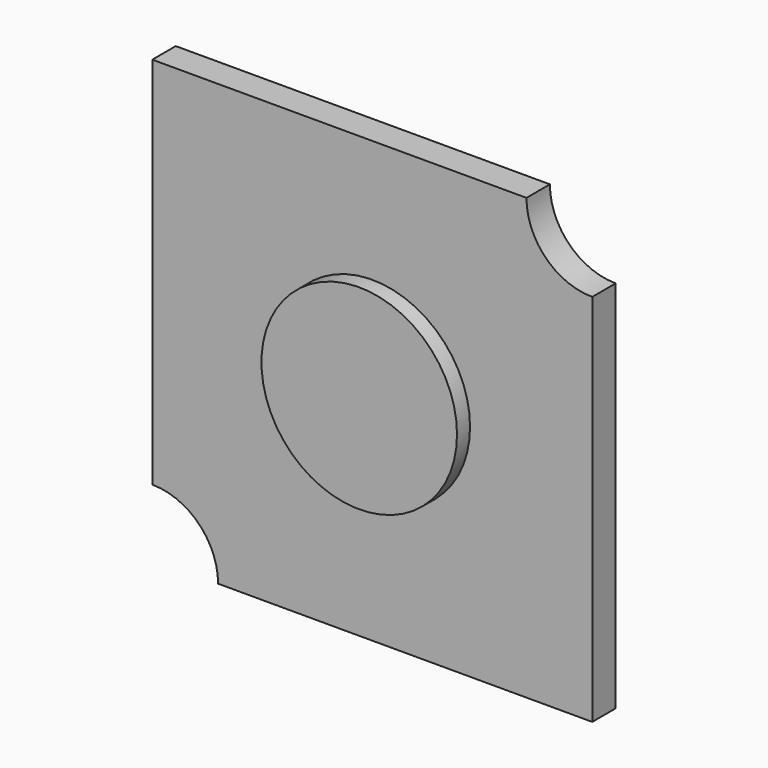
from build123d import *

# Parameters (mm, degrees)
F0_R     = 3
F1_DEPTH = 1.4
F0_W     = 13.5
F0_H     = 13.5
F2_DEPTH = 0.9
F4_DEPTH = 25


with BuildPart() as f1:
    # F0 (on Front) → F1 (new body)
    with BuildSketch(Plane.XZ):
        Circle(F0_R)
    extrude(amount=F1_DEPTH)

    # F0 (on Front) → F2 (join)
    with BuildSketch(Plane.XZ):
        Rectangle(F0_W, F0_H)
        Circle(F0_R, mode=Mode.SUBTRACT)
    extrude(amount=F2_DEPTH)

    # F3 (on face) → F4 (cut)
    with BuildSketch(Plane.XZ.offset(0.9)):
        with BuildLine():
            Line((6.75, 6.75), (4.7308, 6.75))
            ThreePointArc((4.7308, 6.75), (5.32221, 5.32221), (6.75, 4.7308))
            Line((6.75, 4.7308), (6.75, 6.75))
        make_face()
        with BuildLine():
            ThreePointArc((6.75, 4.7308), (8.17779, 5.32221), (8.7692, 6.75))
            ThreePointArc((8.7692, 6.75), (6.75, 8.7692), (4.7308, 6.75))
            Line((4.7308, 6.75), (6.75, 6.75))
            Line((6.75, 6.75), (6.75, 4.7308))
        make_face()
        with BuildLine():
            Line((-6.75, -6.75), (-6.75, -4.7308))
            ThreePointArc((-6.75, -4.7308), (-8.17779, -8.17779), (-4.7308, -6.75))
            Line((-4.7308, -6.75), (-6.75, -6.75))
        make_face()
        with BuildLine():
            ThreePointArc((-4.7308, -6.75), (-5.32221, -5.32221), (-6.75, -4.7308))
            Line((-6.75, -4.7308), (-6.75, -6.75))
            Line((-6.75, -6.75), (-4.7308, -6.75))
        make_face()
    extrude(amount=-F4_DEPTH, mode=Mode.SUBTRACT)


solid = f1.part
